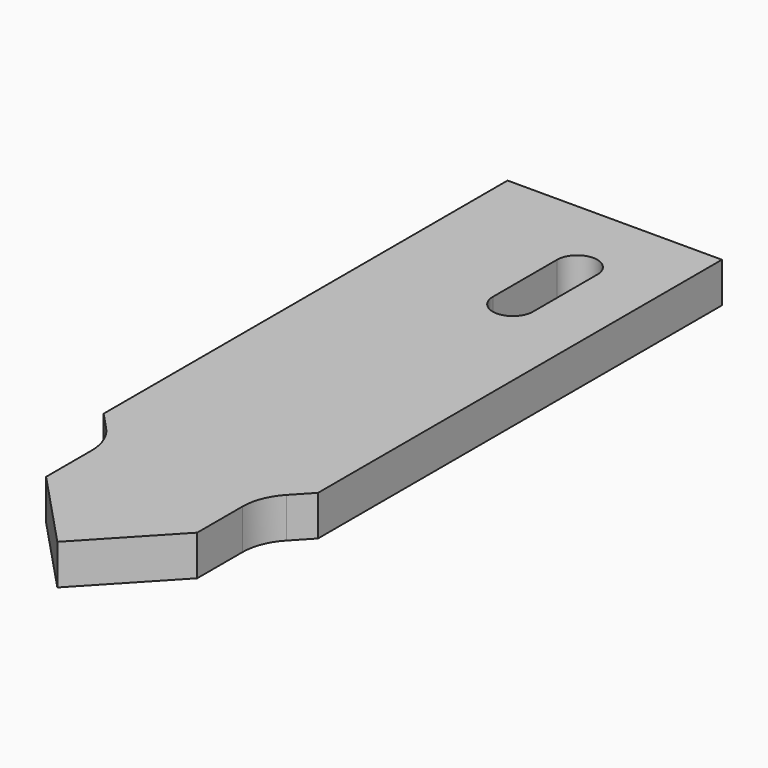
from build123d import *

# Parameters (mm, degrees)
F1_DEPTH = 9.525


with BuildPart() as f1:
    # F0 (on Top) → F1 (new body)
    with BuildSketch(Plane.XY):
        with BuildLine():
            Line((25.4, -37.084), (25.4, 82.55))
            Line((25.4, 82.55), (-25.4, 82.55))
            Line((-25.4, 82.55), (-25.4, -37.084))
            Line((-25.4, -37.084), (-21.353429, -41.388863))
            ThreePointArc((-21.353429, -41.388863), (-18.800003, -45.409099), (-17.907, -50.08722))
            Line((-17.907, -50.08722), (-17.907, -63.5))
            Line((-17.907, -63.5), (0, -82.55))
            Line((0, -82.55), (17.907, -63.5))
            Line((17.907, -63.5), (17.907, -50.08722))
            ThreePointArc((17.907, -50.08722), (18.800003, -45.409099), (21.353429, -41.388863))
            Line((21.353429, -41.388863), (25.4, -37.084))
        make_face()
        with BuildLine():
            ThreePointArc((1.5875, 63.5), (6.35, 68.2625), (11.1125, 63.5))
            Line((11.1125, 63.5), (11.1125, 44.45))
            ThreePointArc((11.1125, 44.45), (6.35, 39.6875), (1.5875, 44.45))
            Line((1.5875, 44.45), (1.5875, 63.5))
        make_face(mode=Mode.SUBTRACT)
    extrude(amount=F1_DEPTH)


solid = f1.part
